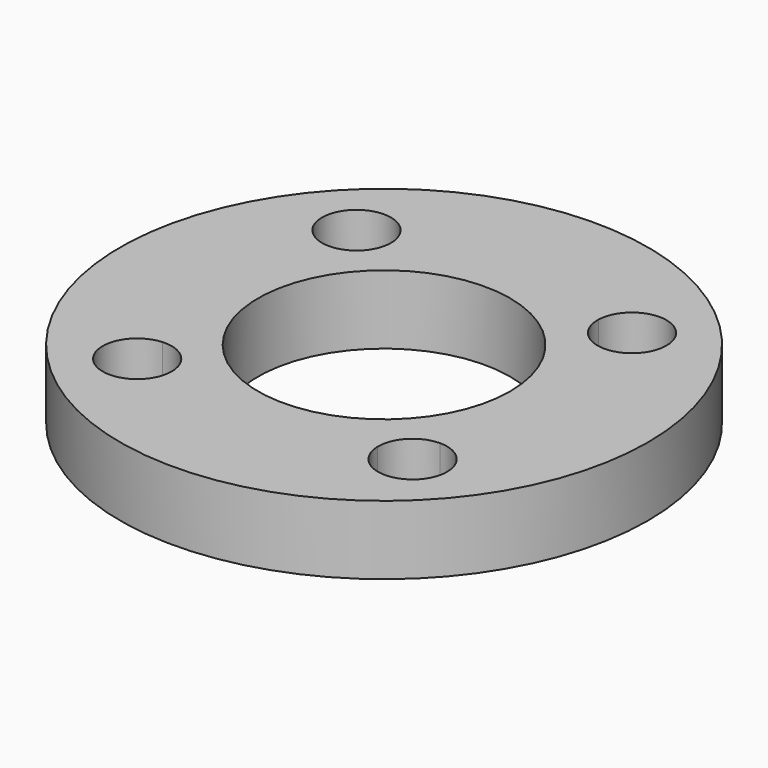
from build123d import *

# Parameters (mm, degrees)
F0_R     = 95.7106781187
F0_R_2   = 45.7106781187
F1_DEPTH = 25


with BuildPart() as f1:
    # F0 (on Top) → F1 (new body)
    with BuildSketch(Plane.XY):
        Circle(F0_R)
        with BuildLine():
            ThreePointArc((62.5838458538, -49.694750458), (50.2364820047, -62.1938185115), (37.5875735009, -50))
            Line((37.5875735009, -50), (-36.7509291224, -50))
            ThreePointArc((-36.7509291224, -50), (-36.7471304594, -50.1778854491), (-36.7458641529, -50.3558069468))
            ThreePointArc((-36.7458641529, -50.3558069468), (-57.8139240824, -59.4573644533), (-50, -37.8785765199))
            Line((-50, -37.8785765199), (-50, 37.5))
            ThreePointArc((-50, 37.5), (-58.8388347648, 58.8388347648), (-37.5, 50))
            Line((-37.5, 50), (37.7422783898, 50))
            ThreePointArc((37.7422783898, 50), (50.4434467903, 62.0821311707), (62.735349685, 49.583863467))
            ThreePointArc((62.735349685, 49.583863467), (58.9905803769, 40.6622080415), (50, 37.0860792423))
            Line((50, 37.0860792423), (50, -37.1950316663))
            ThreePointArc((50, -37.1950316663), (58.8929867548, -40.8263212518), (62.5838458538, -49.694750458))
        make_face(mode=Mode.SUBTRACT)
        with BuildLine():
            Line((-36.7509291224, -50), (37.5875735009, -50))
            ThreePointArc((37.5875735009, -50), (41.1085103709, -40.9945577607), (50, -37.1950316663))
            Line((50, -37.1950316663), (50, 37.0860792423))
            ThreePointArc((50, 37.0860792423), (41.1691756024, 40.9783717608), (37.7422783898, 50))
            Line((37.7422783898, 50), (-37.5, 50))
            ThreePointArc((-37.5, 50), (-41.1611652352, 41.1611652352), (-50, 37.5))
            Line((-50, 37.5), (-50, -37.8785765199))
            ThreePointArc((-50, -37.8785765199), (-40.808221226, -41.1332161048), (-36.7509291224, -50))
        make_face()
        Circle(F0_R_2, mode=Mode.SUBTRACT)
    extrude(amount=F1_DEPTH)


solid = f1.part
